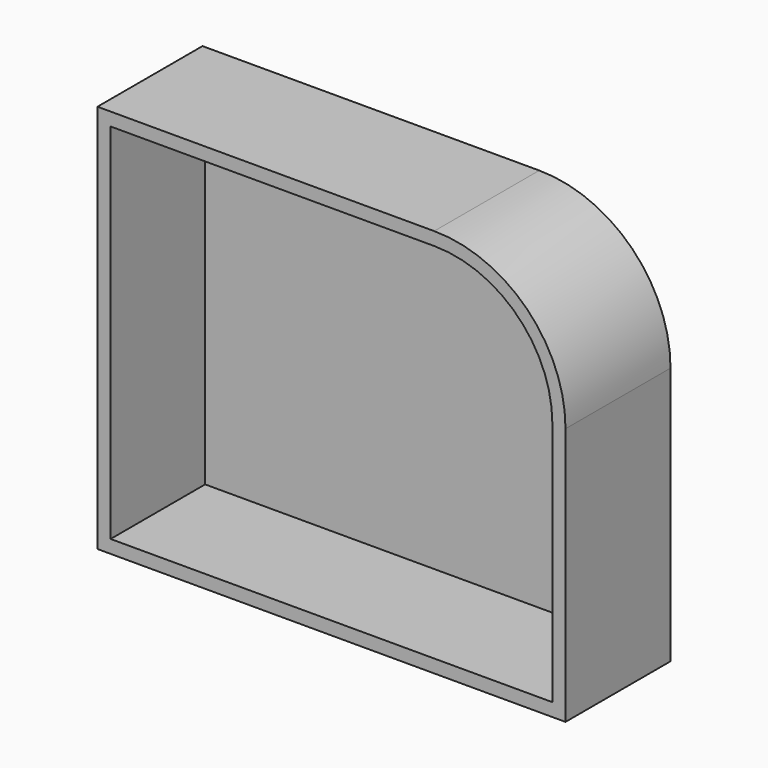
from build123d import *

# Parameters (mm, degrees)
F0_W     = 90.549692
F0_H     = 75.335876
F1_DEPTH = 25.4
F2_R     = 25.4
F3_T     = -2.54


with BuildPart() as f1:
    # F0 (on Front) → F1 (new body)
    with BuildSketch(Plane.XZ):
        Rectangle(F0_W, F0_H)
    extrude(amount=-F1_DEPTH)

    # F2
    f2_edges = [f1.edges().sort_by_distance(p)[0] for p in [
        (45.274846, 12.7, 37.667938),
    ]]
    fillet(f2_edges, radius=F2_R)

    # F3
    f3_openings = [f1.faces().sort_by_distance(p)[0] for p in [
        (-0.820402, 0, -0.662813),
    ]]
    offset(amount=F3_T, openings=f3_openings)


solid = f1.part
